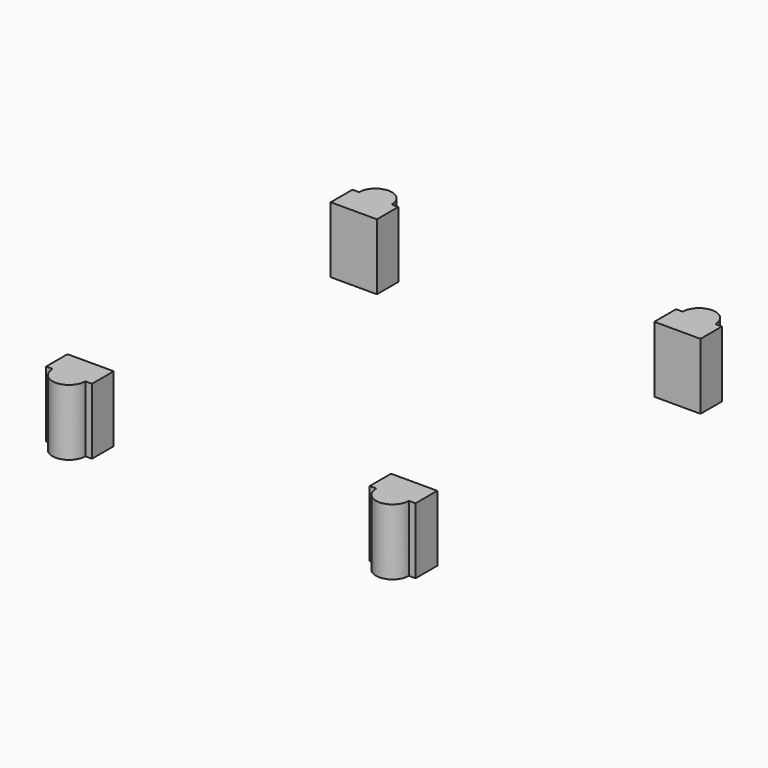
from build123d import *

# Parameters (mm, degrees)
PAD005_DEPTH            = 10
BODY004_PLACEMENT_ANGLE = 180
PAD004_DEPTH            = 10
BODY003_PLACEMENT_ANGLE = 180
PAD003_DEPTH            = 10
PAD002_DEPTH            = 10


with BuildPart() as empty_columns003:
    # Sketch006 → Pad005 (new body)
    with BuildSketch(Plane.XY):
        with BuildLine():
            Line((-28, 37.529002), (-28, 33.413315))
            Line((-28, 33.413315), (-21, 33.413315))
            Line((-21, 33.413315), (-21, 37.464756))
            Line((-21, 37.464756), (-22, 37.464756))
            ThreePointArc((-22, 37.464756), (-24.467839, 39.999853), (-27, 37.529002))
            Line((-28, 37.529002), (-27, 37.529002))
        make_face()
    extrude(amount=PAD005_DEPTH)


with BuildPart() as empty_columns003_1:
    # Body004 placement: moved
    add(empty_columns003.part.moved(Location((-49, 17, 3.5))).rotate(Axis((-49, 17, 3.5), (0, 0, 1)), BODY004_PLACEMENT_ANGLE))


with BuildPart() as empty_columns002:
    # Sketch005 → Pad004 (new body)
    with BuildSketch(Plane.XY):
        with BuildLine():
            Line((-28, 37.529002), (-28, 33.413315))
            Line((-28, 33.413315), (-21, 33.413315))
            Line((-21, 33.413315), (-21, 37.464756))
            Line((-21, 37.464756), (-22, 37.464756))
            ThreePointArc((-22, 37.464756), (-24.467839, 39.999853), (-27, 37.529002))
            Line((-28, 37.529002), (-27, 37.529002))
        make_face()
    extrude(amount=PAD004_DEPTH)


with BuildPart() as empty_columns002_1:
    # Body003 placement: moved
    add(empty_columns002.part.moved(Location((0, 17, 3.5))).rotate(Axis((0, 17, 3.5), (0, 0, 1)), BODY003_PLACEMENT_ANGLE))


with BuildPart() as empty_columns001:
    # Sketch004 → Pad003 (new body)
    with BuildSketch(Plane.XY):
        with BuildLine():
            Line((-28, 37.529002), (-28, 33.413315))
            Line((-28, 33.413315), (-21, 33.413315))
            Line((-21, 33.413315), (-21, 37.464756))
            Line((-21, 37.464756), (-22, 37.464756))
            ThreePointArc((-22, 37.464756), (-24.467839, 39.999853), (-27, 37.529002))
            Line((-28, 37.529002), (-27, 37.529002))
        make_face()
    extrude(amount=PAD003_DEPTH)


with BuildPart() as empty_columns001_1:
    # Body002 placement: moved
    add(empty_columns001.part.moved(Location((49, 0, 3.5))))


with BuildPart() as empty_columns004:
    # Sketch003 → Pad002 (new body)
    with BuildSketch(Plane.XY):
        with BuildLine():
            Line((-28, 37.529002), (-28, 33.413315))
            Line((-28, 33.413315), (-21, 33.413315))
            Line((-21, 33.413315), (-21, 37.464756))
            Line((-21, 37.464756), (-22, 37.464756))
            ThreePointArc((-22, 37.464756), (-24.467839, 39.999853), (-27, 37.529002))
            Line((-28, 37.529002), (-27, 37.529002))
        make_face()
    extrude(amount=PAD002_DEPTH)


with BuildPart() as empty_columns004_1:
    # Body001 placement: moved
    add(empty_columns004.part.moved(Location((0, 0, 3.5))))

    # Fusion: union empty_columns003, empty_columns002, empty_columns001
    add(empty_columns003_1.part)
    add(empty_columns002_1.part)
    add(empty_columns001_1.part)


solid = empty_columns004_1.part
